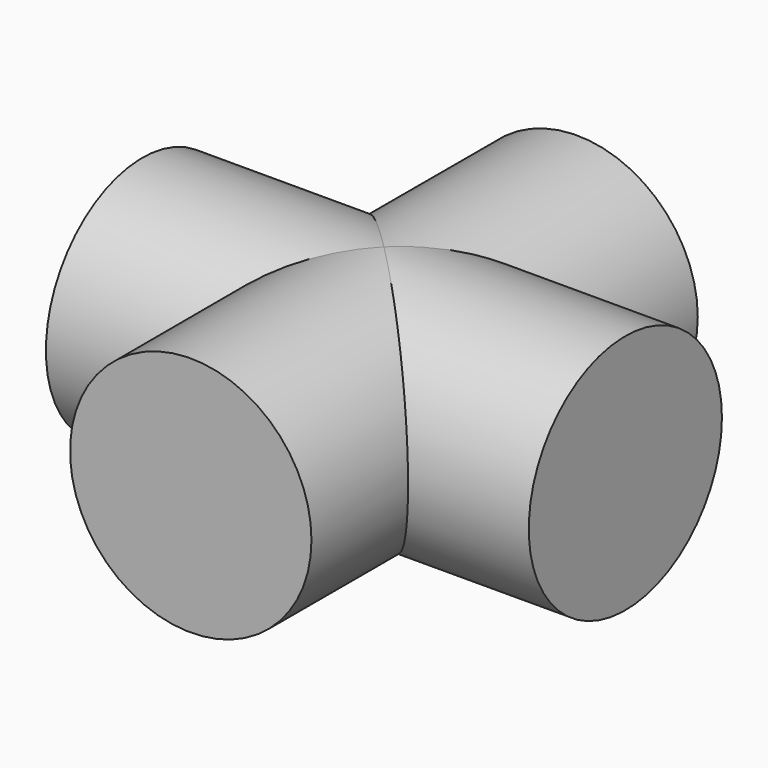
from build123d import *

# Parameters (mm, degrees)
F0_R     = 12.7
F1_DEPTH = 25.4
F2_R     = 12.7
F3_DEPTH = 25.4


with BuildPart() as f1:
    # F0 (on Front) → F1 (new body, symmetric)
    with BuildSketch(Plane.XZ):
        Circle(F0_R)
    extrude(amount=F1_DEPTH, both=True)

    # F2 (on Right) → F3 (join, symmetric)
    with BuildSketch(Plane.YZ):
        Circle(F2_R)
    extrude(amount=F3_DEPTH, both=True)


solid = f1.part
